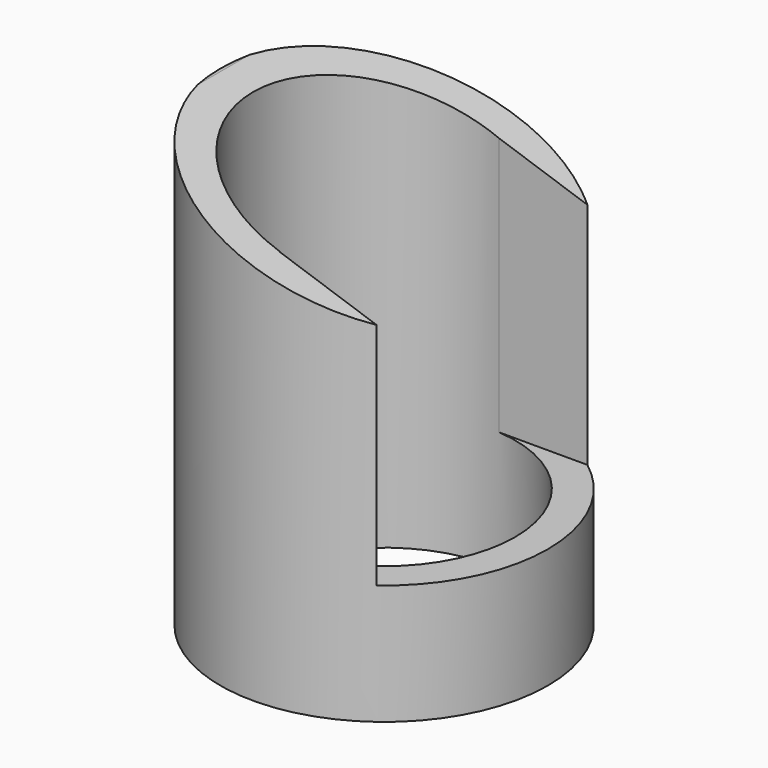
from build123d import *

# Parameters (mm, degrees)
F0_R     = 19.05
F0_R_2   = 15.24
F1_DEPTH = 50.8
F3_DEPTH = 25.4
F4_W     = 30.48
F4_H     = 30.48
F5_DEPTH = 25.4


with BuildPart() as f1:
    # F0 (on Top) → F1 (new body)
    with BuildSketch(Plane.XY):
        Circle(F0_R)
        Circle(F0_R_2, mode=Mode.SUBTRACT)
    extrude(amount=F1_DEPTH)

    # F2 (on Front) → F3 (cut, symmetric)
    with BuildSketch(Plane.XZ):
        Polygon((19.165186, 50.845042), (-19.072151, 50.938074), (19.165186, 38.006227), align=None)
    extrude(amount=F3_DEPTH, both=True, mode=Mode.SUBTRACT)

    # F4 (on Right) → F5 (cut)
    with BuildSketch(Plane.YZ):
        with Locations((-0.046517, 29.21)):
            Rectangle(F4_W, F4_H)
    extrude(amount=F5_DEPTH, mode=Mode.SUBTRACT)


solid = f1.part
